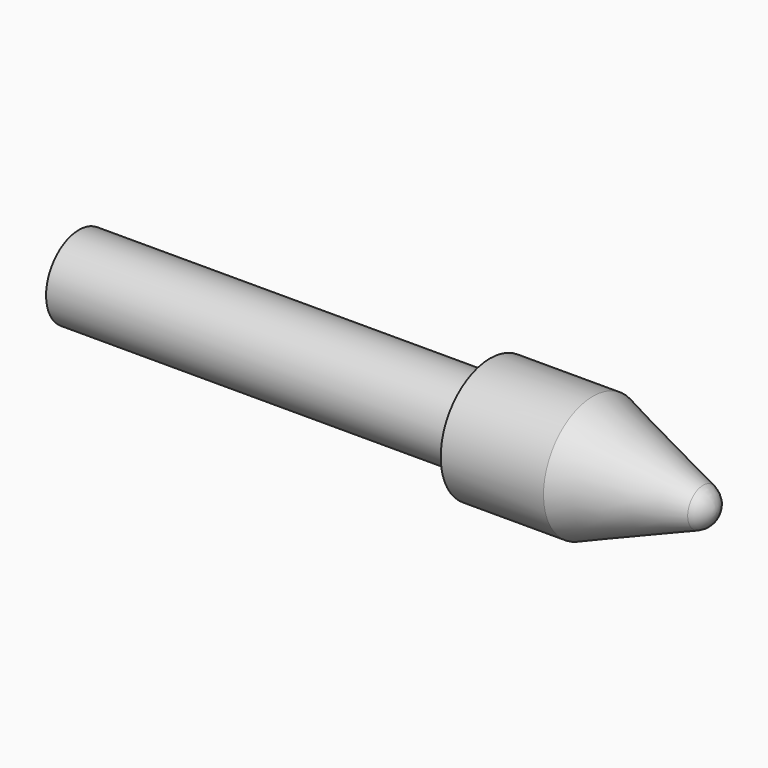
from build123d import *


with BuildPart() as f1:
    # F0 (on Front) → F1 (revolve)
    with BuildSketch(Plane.XZ):
        with BuildLine():
            Line((0, 2), (0, 0))
            Line((0, 0), (30, 0))
            Line((30, 0), (31, 0))
            ThreePointArc((31, 0), (30.824565, 0.565767), (30.359814, 0.933024))
            Line((30.359814, 0.933024), (25, 3))
            Line((25, 3), (20, 3))
            Line((20, 3), (20, 2))
            Line((20, 2), (0, 2))
        make_face()
    revolve(axis=Axis((15, 0, 0), (1, 0, 0)))


solid = f1.part
